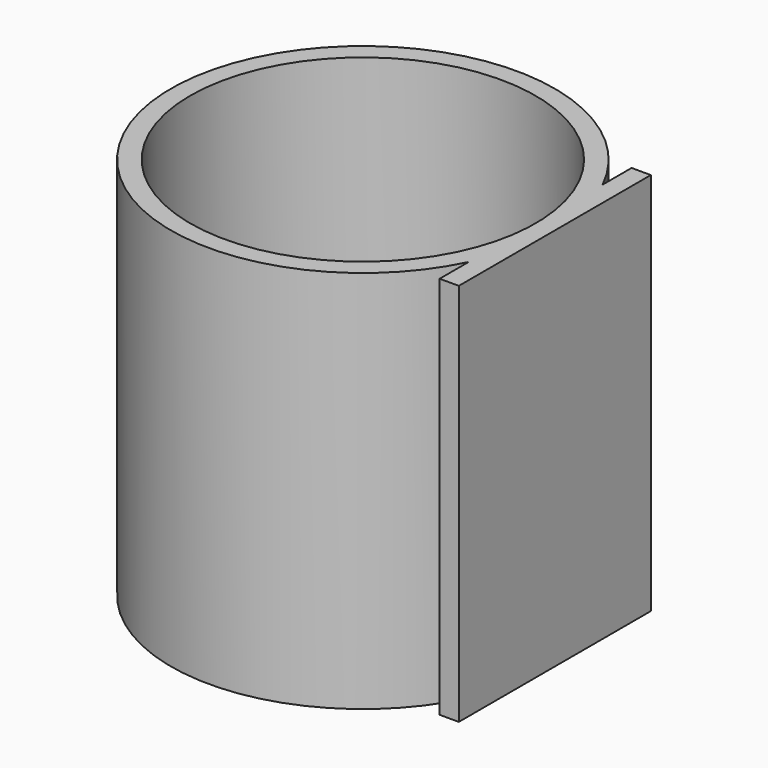
from build123d import *

# Parameters (mm, degrees)
F4_W     = 63.5
F4_H     = 101.6
F5_DEPTH = 5.08


with BuildPart() as f2:
    # F0 (on Front) → F2 (revolve)
    with BuildSketch(Plane.XZ):
        Polygon((-45.72, 101.6), (-50.8, 101.6), (-50.8, 0), (-45.72, 0), (0, 0), (0, 5.08), (-45.72, 5.08), align=None)
    revolve(axis=Axis((0, 0, 36.652558), (0, 0, 1)))

    # F4 (on offset) → F5 (join)
    with BuildSketch(Plane.YZ.offset(50.8)):
        with Locations((0, 50.8)):
            Rectangle(F4_W, F4_H)
    extrude(amount=-F5_DEPTH)


solid = f2.part
